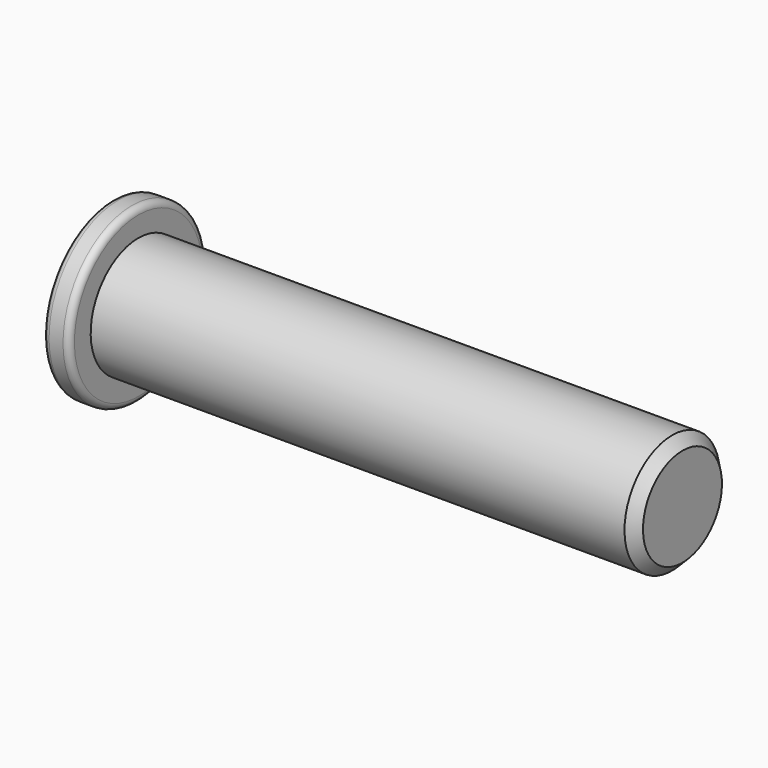
from build123d import *

# Parameters (mm, degrees)
F2_SIZE2 = 0.81
F2_SIZE  = 0.81
F3_R     = 0.5


with BuildPart() as f1:
    # F0 (on Front) → F1 (revolve)
    with BuildSketch(Plane.XZ):
        Polygon((0, 6.8), (0, 0), (45, 0), (45, 4.7), (2.1, 4.7), (2.1, 6.8), align=None)
    revolve(axis=Axis((22.5, 0, 0), (1, 0, 0)))

    # F2
    f2_edges = [f1.edges().sort_by_distance(p)[0] for p in [
        (45, 0, -4.7),
    ]]
    chamfer(f2_edges, length=F2_SIZE, length2=F2_SIZE2)

    # F3
    f3_edges = [f1.edges().sort_by_distance(p)[0] for p in [
        (2.1, 0, -6.8),
        (0, 0, -6.8),
        (1.05, 0, 6.8),
    ]]
    fillet(f3_edges, radius=F3_R)


solid = f1.part
